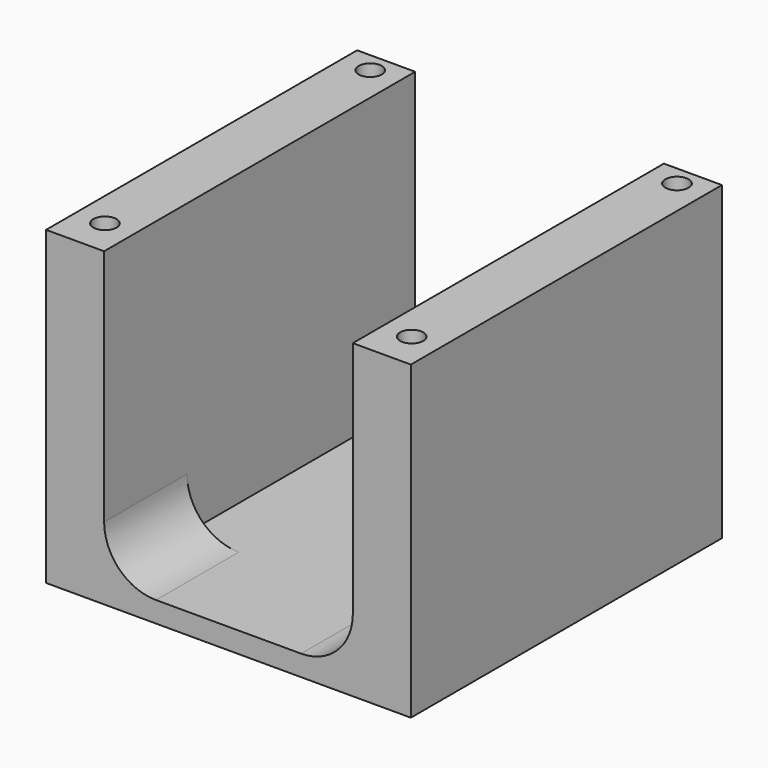
from build123d import *

# Parameters (mm, degrees)
F0_W      = 60
F0_H      = 12.3176118359
F1_DEPTH  = 10
F2_DEPTH  = 60
F3_W      = 88
F3_H      = 98
F4_DEPTH  = 5
F5_DEPTH  = 70
F6_D      = 5.6
F6_DEPTH  = 10
F6_TIP    = 1.6824097333
F8_DEPTH  = 25
F9_W      = 88
F9_H      = 4.2
F10_DEPTH = 75.001
F12_D     = 5.6
F12_DEPTH = 10
F12_TIP   = 1.6824097333


with BuildPart() as f1:
    # F0 (on Top) → F1 (new body)
    with BuildSketch(Plane.XY):
        Polygon((-37, 40), (-30, 40), (-30, 49), (-44, 49), (-44, -49), (-30, -49), (-30, -40), (-37, -40), align=None)
        Polygon((-30, -6.1588059179), (-30, 6.1588059179), (-30, 40), (-37, 40), (-37, -40), (-30, -40), align=None)
        Rectangle(F0_W, F0_H)
        Polygon((37, -40), (37, 40), (30, 40), (30, 6.1588059179), (30, -6.1588059179), (30, -40), align=None)
        Polygon((30, 40), (37, 40), (37, -40), (30, -40), (30, -49), (44, -49), (44, 49), (30, 49), align=None)
    extrude(amount=-F1_DEPTH)

    # F2 (add): a face of the model
    f2_faces = [f1.faces().sort_by_distance(p)[0] for p in [
        (0, 0, -10),
    ]]
    extrude(f2_faces, amount=F2_DEPTH)

    # F3 (on face) → F4 (join)
    with BuildSketch(Plane(origin=(0, 0, -70), x_dir=(1, 0, 0), z_dir=(0, 0, -1))):
        Rectangle(F3_W, F3_H)
    extrude(amount=F4_DEPTH)

    # F0 (on Top) → F5 (cut, through all)
    with BuildSketch(Plane.XY):
        Rectangle(F0_W, F0_H)
    extrude(amount=-F5_DEPTH, mode=Mode.SUBTRACT)

    # F6
    with Locations(Plane.XY):
        with Locations((-37, 40), (-37, -40), (37, -40), (37, 40)):
            Hole(F6_D / 2, depth=F6_DEPTH)
            with Locations((0, 0, -(F6_DEPTH + F6_TIP / 2))):  # 118° drill point
                Cone(0, F6_D / 2, F6_TIP, mode=Mode.SUBTRACT)

    # F7 (on face) → F8 (join)
    with BuildSketch(Plane.XZ.offset(49)):
        with BuildLine():
            ThreePointArc((-17.500000122, -70), (-26.338834808, -66.3388347217), (-30, -57.5))
            Line((-30, -57.5), (-30, -70))
            Line((-30, -70), (-17.500000122, -70))
        make_face()
        with BuildLine():
            ThreePointArc((30, -57.5), (26.3388347648, -66.3388347648), (17.5, -70))
            Line((17.5, -70), (30, -70))
            Line((30, -70), (30, -57.5))
        make_face()
    extrude(amount=-F8_DEPTH)

    # F9 (on face) → F10 (cut, through all)
    with BuildSketch(Plane.XY):
        with Locations((0, 46.9)):
            Rectangle(F9_W, F9_H)
    extrude(amount=-F10_DEPTH, mode=Mode.SUBTRACT)

    # F12
    with Locations(Plane(origin=(-44, 0, 0), x_dir=(0, -1, 0), z_dir=(-1, 0, 0))):
        with Locations((5.7637224598, -23.1461717886), (39.7637224598, -23.1461717886), (5.7637224598, -65.1461717886), (39.7637224598, -65.1461717886)):
            Hole(F12_D / 2, depth=F12_DEPTH)
            with Locations((0, 0, -(F12_DEPTH + F12_TIP / 2))):  # 118° drill point
                Cone(0, F12_D / 2, F12_TIP, mode=Mode.SUBTRACT)


solid = f1.part
